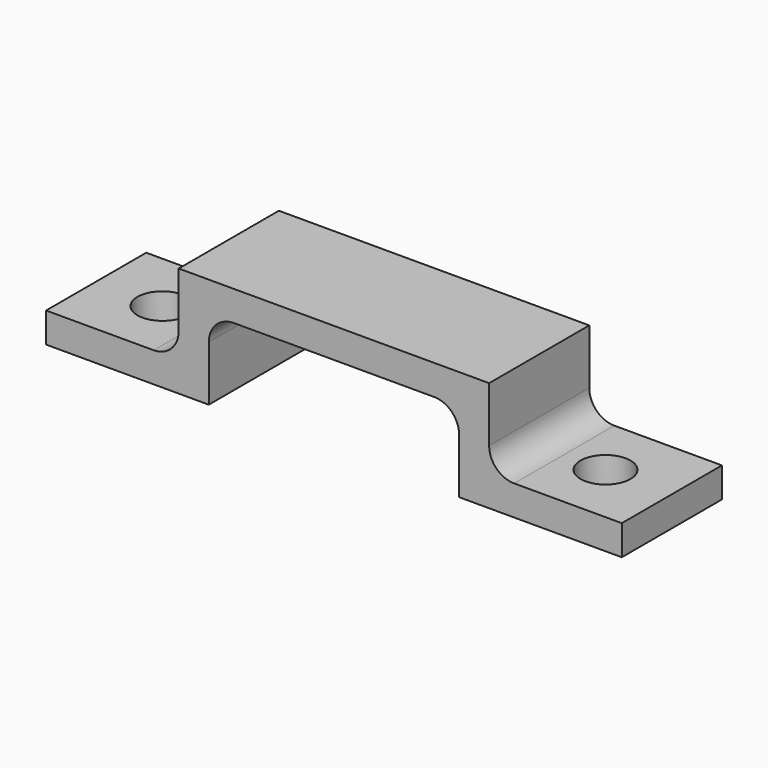
from build123d import *

# Parameters (mm, degrees)
F1_DEPTH = 3.175
F2_R     = 1.27
F3_DEPTH = 1.524
F4_R     = 1.27


with BuildPart() as f1:
    # F0 (on Front) → F1 (new body, symmetric)
    with BuildSketch(Plane.XZ):
        Polygon((-14.605, -4.064), (-6.35, -4.064), (-6.35, 0), (6.35, 0), (6.35, -4.064), (14.605, -4.064), (14.605, -2.54), (7.874, -2.54), (7.874, 1.524), (-7.874, 1.524), (-7.874, -2.54), (-14.605, -2.54), align=None)
    extrude(amount=F1_DEPTH, both=True)

    # F2 (on face) → F3 (cut, through all)
    with BuildSketch(Plane.XY.offset(-2.54)):
        with Locations((-11.2395, 0)):
            Circle(F2_R)
        with Locations((11.2395, 0)):
            Circle(F2_R)
    extrude(amount=-F3_DEPTH, mode=Mode.SUBTRACT)

    # F4
    f4_edges = [f1.edges().sort_by_distance(p)[0] for p in [
        (-6.35, 0, 0),
        (6.35, 0, 0),
        (-7.874, 0, -2.54),
        (7.874, 0, -2.54),
    ]]
    fillet(f4_edges, radius=F4_R)


solid = f1.part
